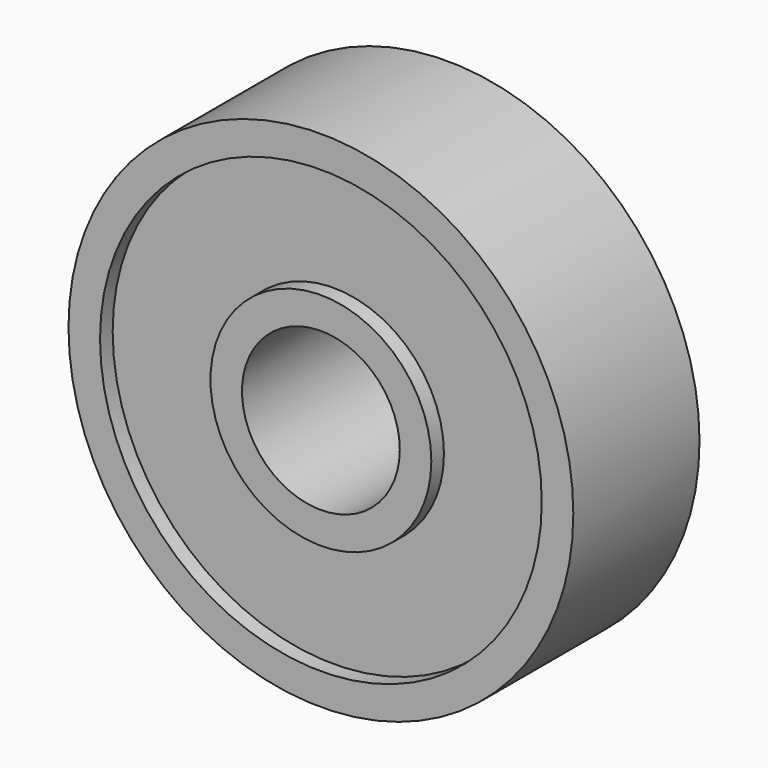
from build123d import *

# Parameters (mm, degrees)
F0_R     = 3.5
F0_R_2   = 2.5
F1_DEPTH = 2.5
F0_R_3   = 8
F0_R_4   = 7
F2_DEPTH = 2


with BuildPart() as f1:
    # F0 (on Front) → F1 (new body, symmetric)
    with BuildSketch(Plane.XZ):
        Circle(F0_R)
        Circle(F0_R_2, mode=Mode.SUBTRACT)
    extrude(amount=F1_DEPTH, both=True)



with BuildPart() as f1b:
    # F0 (on Front) → F1, piece 2 (new body, symmetric)
    with BuildSketch(Plane.XZ):
        Circle(F0_R_3)
        Circle(F0_R_4, mode=Mode.SUBTRACT)
    extrude(amount=F1_DEPTH, both=True)


with BuildPart() as f1_1:
    add(f1.part)

    add(f1b.part)  # F2 merges F1b
    # F0 (on Front) → F2 (join, symmetric)
    with BuildSketch(Plane.XZ):
        Circle(F0_R_4)
        Circle(F0_R, mode=Mode.SUBTRACT)
    extrude(amount=F2_DEPTH, both=True)


solid = f1_1.part
